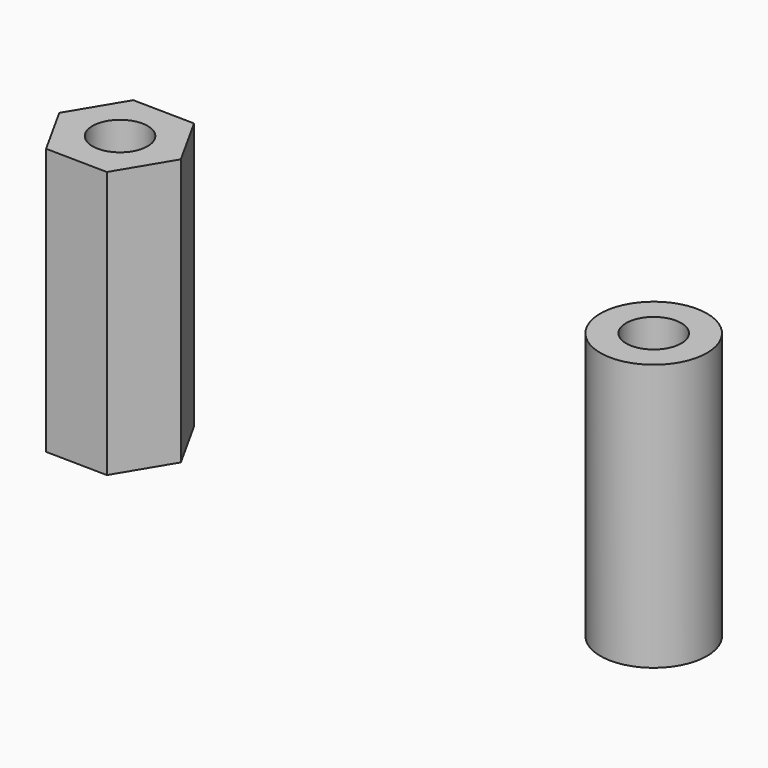
from build123d import *

# Parameters (mm, degrees)
F0_R     = 3
F0_R_2   = 1.55
F1_DEPTH = 15


with BuildPart() as f1:
    # F0 (on Top) → F1 (new body)
    with BuildSketch(Plane.XY):
        Circle(F0_R)
        Circle(F0_R_2, mode=Mode.SUBTRACT)
        Polygon((-28.318654, -3.028709), (-26.536388, -0.058266), (-28.217734, 2.970442), (-31.681346, 3.028709), (-33.463612, 0.058266), (-31.782266, -2.970442), align=None)
        with Locations((-30, 0)):
            Circle(F0_R_2, mode=Mode.SUBTRACT)
    extrude(amount=F1_DEPTH)


solid = f1.part
